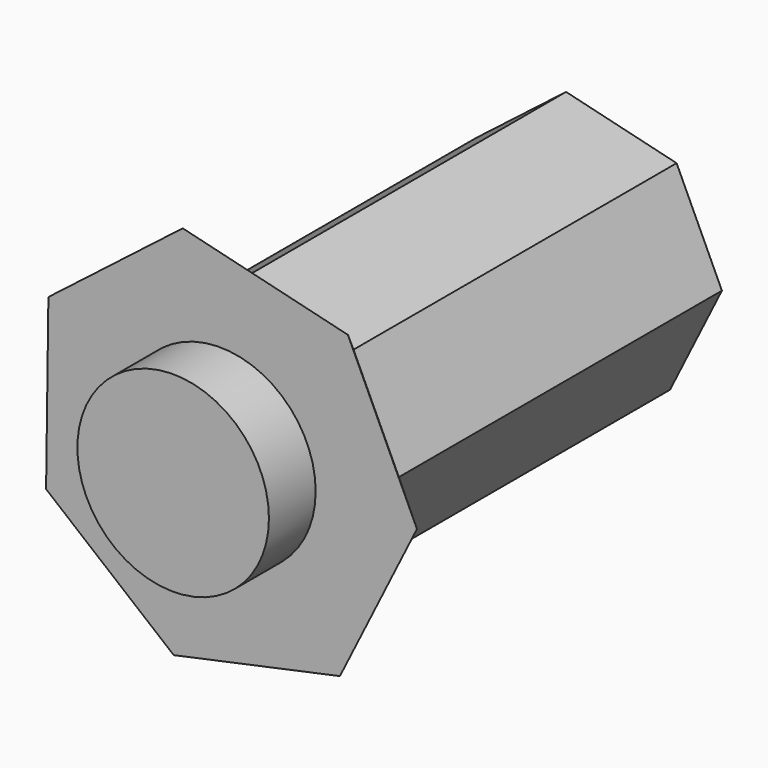
from build123d import *

# Parameters (mm, degrees)
F1_DEPTH  = 103.7
F2_R      = 24.5940307027
F3_DEPTH  = 30
F1_FACE_R = 24.5940307027
F4_DEPTH  = 15
F4_TAPER  = -45


with BuildPart() as f1:
    # F0 (on Front) → F1 (new body)
    with BuildSketch(Plane.XZ):
        Polygon((22.3202445945, 25.194608101), (-6.0597066768, 32.0796431042), (-29.137253995, 14.1840528394), (-29.5342159325, -14.9930742126), (-7.9341934053, -32.7045573648), (20.6225638938, -26.5941601835), (33.9587605911, 0.1614082956), align=None)
    extrude(amount=F1_DEPTH)

    # F2 (on face) → F3 (join)
    with BuildSketch(Plane.XZ.offset(103.7)):
        Circle(F2_R)
    extrude(amount=F3_DEPTH)

    # F1_face (on face) → F4 (join)
    with BuildSketch(Plane(origin=(0.6027987413, -103.7, -0.3810429476), x_dir=(1, 0, 0), z_dir=(0, -1, 0))):
        Polygon((21.7174458532, 25.5756510486), (-6.662505418, 32.4606860518), (-29.7400527363, 14.565095787), (-30.1370146738, -14.612031265), (-8.5369921466, -32.3235144172), (20.0197651525, -26.2131172359), (33.3559618499, 0.5424512432), align=None)
        with Locations((-0.6027987413, 0.3810429476)):
            Circle(F1_FACE_R, mode=Mode.SUBTRACT)
    extrude(amount=F4_DEPTH, taper=F4_TAPER)


solid = f1.part
